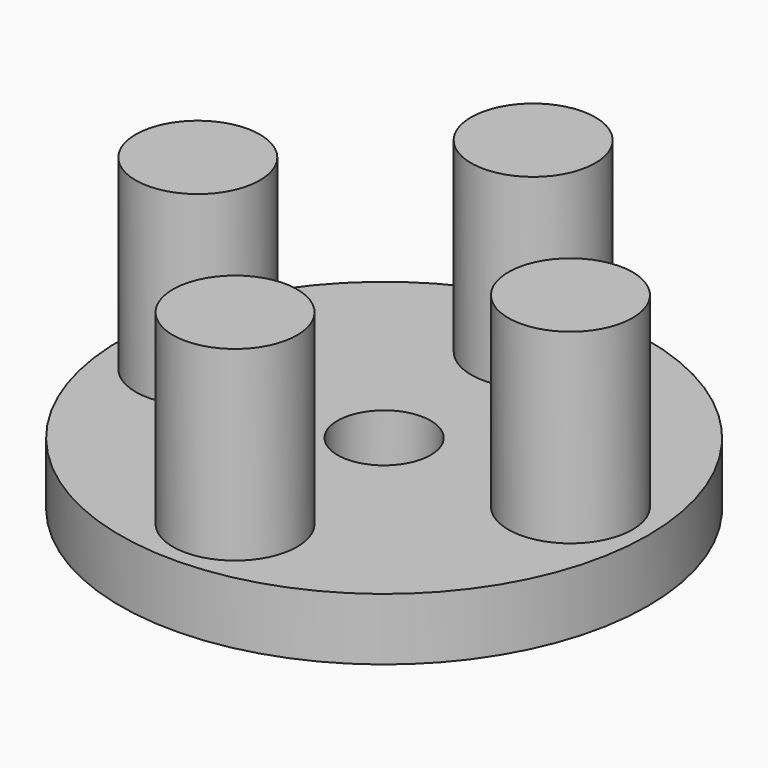
from build123d import *

# Parameters (mm, degrees)
SKETCH_R           = 8.5
SKETCH_R_2         = 1.5
PAD_DEPTH          = 2
SKETCH001_R        = 2
PAD001_DEPTH       = 6
POLARPATTERN_COUNT = 4


with BuildPart() as part:
    # Sketch → Pad (new body)
    with BuildSketch(Plane.XY):
        Circle(SKETCH_R)
        Circle(SKETCH_R_2, mode=Mode.SUBTRACT)
    extrude(amount=PAD_DEPTH)

    # Sketch001 → Pad001 (new body)
    with BuildSketch(Plane.XY.offset(2)):
        with Locations((6, 0)):
            Circle(SKETCH001_R)
    pad001 = extrude(amount=PAD001_DEPTH)

    # PolarPattern: Pad001 ×4 about axis
    polarpattern_axis = Axis((0, 0, 2), (0, 0, 1))
    for i in range(1, POLARPATTERN_COUNT):
        add(pad001.rotate(polarpattern_axis, i * 360 / POLARPATTERN_COUNT))


solid = part.part
